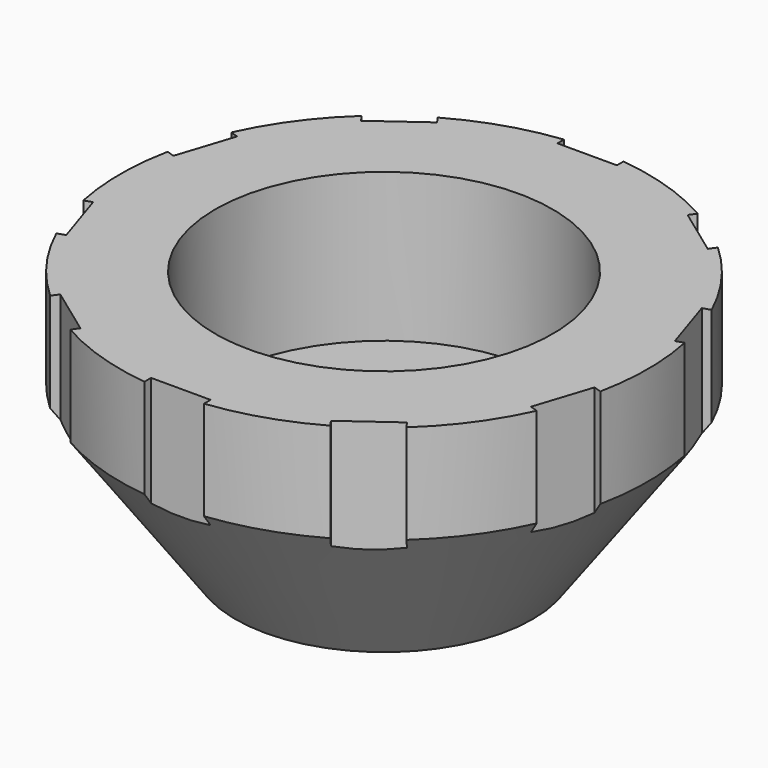
from build123d import *

# Parameters (mm, degrees)
SKETCH005_W        = 3
SKETCH005_H        = 1
POCKET002_DEPTH    = 92.668992
POLARPATTERN_COUNT = 10
FILLET_R           = 0.5
FILLET004_R        = 2


with BuildPart() as part:
    # Sketch003 → Revolution (revolve)
    with BuildSketch(Plane.XZ):
        Polygon((-5.5, 0), (-7.520726, 3.5), (-5.520726, 3.5), (-5.520726, 5.5), (-8.51234, 5.5), (-8.51234, 8), (-8.51234, 13), (-11.31234, 13), (-13.31234, 13), (-13.31234, 8), (-7.5, 0), align=None)
    revolve(axis=Axis((0, 0, 0), (0, 0, 1)))

    # Sketch005 (on Face1 of Revolution) → Pocket002 (cut, through all)
    with BuildSketch(Plane(origin=(0, 0, 13), x_dir=(-1, 0, 0), z_dir=(0, 0, 1))):
        with Locations((0, 13.31234)):
            Rectangle(SKETCH005_W, SKETCH005_H)
    pocket002 = extrude(amount=-POCKET002_DEPTH, mode=Mode.SUBTRACT)

    # PolarPattern: Pocket002 ×10 about axis
    polarpattern_axis = Axis((0, 0, 13), (0, 0, 1))
    for i in range(1, POLARPATTERN_COUNT):
        add(pocket002.rotate(polarpattern_axis, i * 360 / POLARPATTERN_COUNT), mode=Mode.SUBTRACT)

    # Fillet
    fillet_edges = [part.edges().sort_by_distance(p)[0] for p in [
        (5.520726, 0, 3.5),
        (5.5, 0, 0),
    ]]
    fillet(fillet_edges, radius=FILLET_R)

    # Fillet004
    fillet004_edges = [part.edges().sort_by_distance(p)[0] for p in [
        (7.520726, 0, 3.5),
    ]]
    fillet(fillet004_edges, radius=FILLET004_R)


solid = part.part
